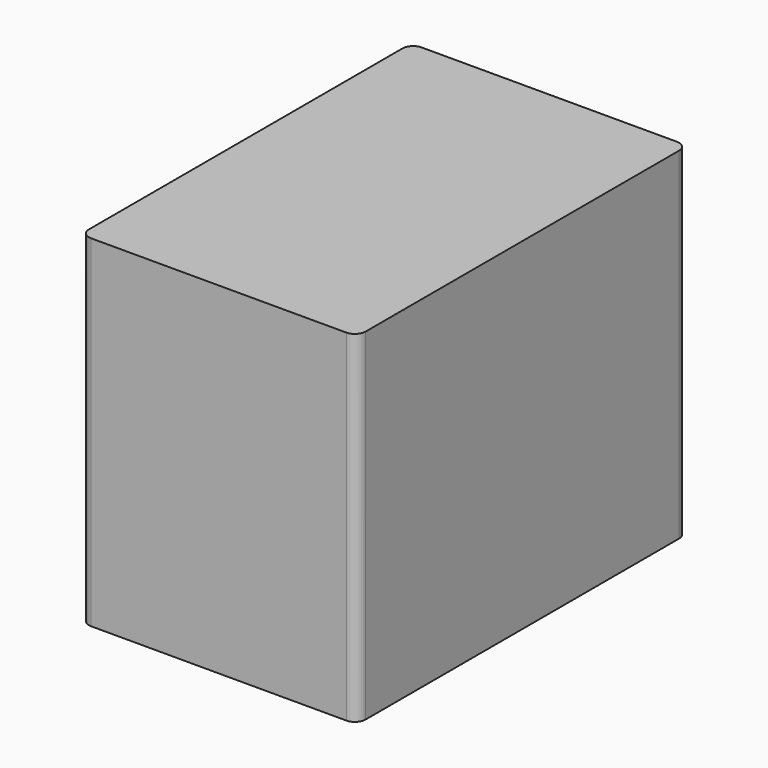
from build123d import *

# Parameters (mm, degrees)
F1_DEPTH = 158.75
F3_DEPTH = 3.175


with BuildPart() as f1:
    # F0 (on Top) → F1 (new body)
    with BuildSketch(Plane.XY):
        with BuildLine():
            ThreePointArc((-64.29375, -91.044), (-62.829284, -94.579534), (-59.29375, -96.044))
            Line((-59.29375, -96.044), (59.29375, -96.044))
            ThreePointArc((59.29375, -96.044), (62.829284, -94.579534), (64.29375, -91.044))
            Line((64.29375, -91.044), (64.29375, 91.0435))
            ThreePointArc((64.29375, 91.0435), (62.829284, 94.579034), (59.29375, 96.0435))
            Line((59.29375, 96.0435), (-59.29375, 96.0435))
            ThreePointArc((-59.29375, 96.0435), (-62.829284, 94.579034), (-64.29375, 91.0435))
            Line((-64.29375, 91.0435), (-64.29375, -91.044))
        make_face()
    extrude(amount=F1_DEPTH)


with BuildPart() as f3:
    # F2 (on face) → F3 (new body)
    with BuildSketch(Plane(origin=(0, 0, 0), x_dir=(1, 0, 0), z_dir=(0, 0, -1))):
        with BuildLine():
            Line((-38.29375, 81.044), (-38.29375, 86.044))
            Line((-38.29375, 86.044), (-58.29375, 86.044))
            Line((-58.29375, 86.044), (-58.29375, 66.044))
            Line((-58.29375, 66.044), (-38.29375, 66.044))
            Line((-38.29375, 66.044), (-38.29375, 71.044))
            ThreePointArc((-38.29375, 71.044), (-43.29375, 76.044), (-38.29375, 81.044))
        make_face()
        with BuildLine():
            ThreePointArc((-38.29375, 66.044), (-28.29375, 76.044), (-38.29375, 86.044))
            Line((-38.29375, 86.044), (-38.29375, 81.044))
            ThreePointArc((-38.29375, 81.044), (-34.758216, 79.579534), (-33.29375, 76.044))
            ThreePointArc((-33.29375, 76.044), (-34.758216, 72.508466), (-38.29375, 71.044))
            Line((-38.29375, 71.044), (-38.29375, 66.044))
        make_face()
        with BuildLine():
            Line((-58.29375, -86.044), (-38.29375, -86.044))
            Line((-38.29375, -86.044), (-38.29375, -81.044))
            ThreePointArc((-38.29375, -81.044), (-43.29375, -76.044), (-38.29375, -71.044))
            Line((-38.29375, -71.044), (-38.29375, -66.044))
            Line((-38.29375, -66.044), (-58.29375, -66.044))
            Line((-58.29375, -66.044), (-58.29375, -86.044))
        make_face()
        with BuildLine():
            Line((-38.29375, -81.044), (-38.29375, -86.044))
            ThreePointArc((-38.29375, -86.044), (-28.29375, -76.044), (-38.29375, -66.044))
            Line((-38.29375, -66.044), (-38.29375, -71.044))
            ThreePointArc((-38.29375, -71.044), (-34.758216, -72.508466), (-33.29375, -76.044))
            ThreePointArc((-33.29375, -76.044), (-34.758216, -79.579534), (-38.29375, -81.044))
        make_face()
    extrude(amount=F3_DEPTH)


solid = Compound([f1.part, f3.part])
